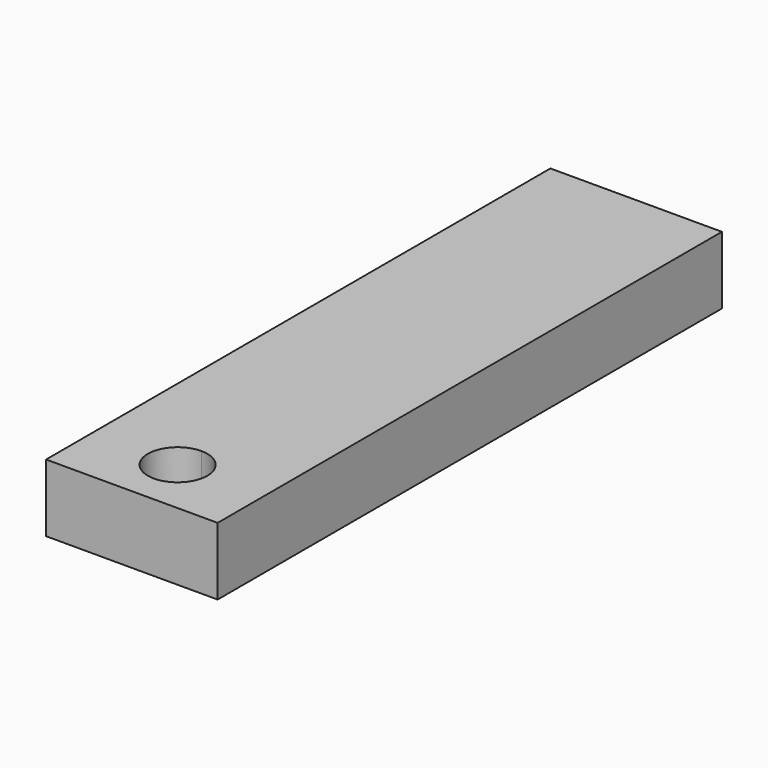
from build123d import *

# Parameters (mm, degrees)
F1_DEPTH = 7.5


with BuildPart() as f1:
    # F0 (on Top) → F1 (new body)
    with BuildSketch(Plane.XY):
        with BuildLine():
            Line((-3.341401, 25.115587), (-12.866401, 25.115587))
            Line((-12.866401, 25.115587), (-12.866401, -44.884413))
            Line((-12.866401, -44.884413), (-3.341401, -44.884413))
            Line((-3.341401, -44.884413), (-3.341401, -41.836413))
            ThreePointArc((-3.341401, -41.836413), (-6.643401, -38.534413), (-3.341401, -35.232413))
            Line((-3.341401, -35.232413), (-3.341401, 25.115587))
        make_face()
        with BuildLine():
            Line((6.183599, 25.115587), (-3.341401, 25.115587))
            Line((-3.341401, 25.115587), (-3.341401, -35.232413))
            ThreePointArc((-3.341401, -35.232413), (-1.006534, -36.199547), (-0.039401, -38.534413))
            ThreePointArc((-0.039401, -38.534413), (-1.006534, -40.86928), (-3.341401, -41.836413))
            Line((-3.341401, -41.836413), (-3.341401, -44.884413))
            Line((-3.341401, -44.884413), (6.183599, -44.884413))
            Line((6.183599, -44.884413), (6.183599, 25.115587))
        make_face()
    extrude(amount=F1_DEPTH)


solid = f1.part
